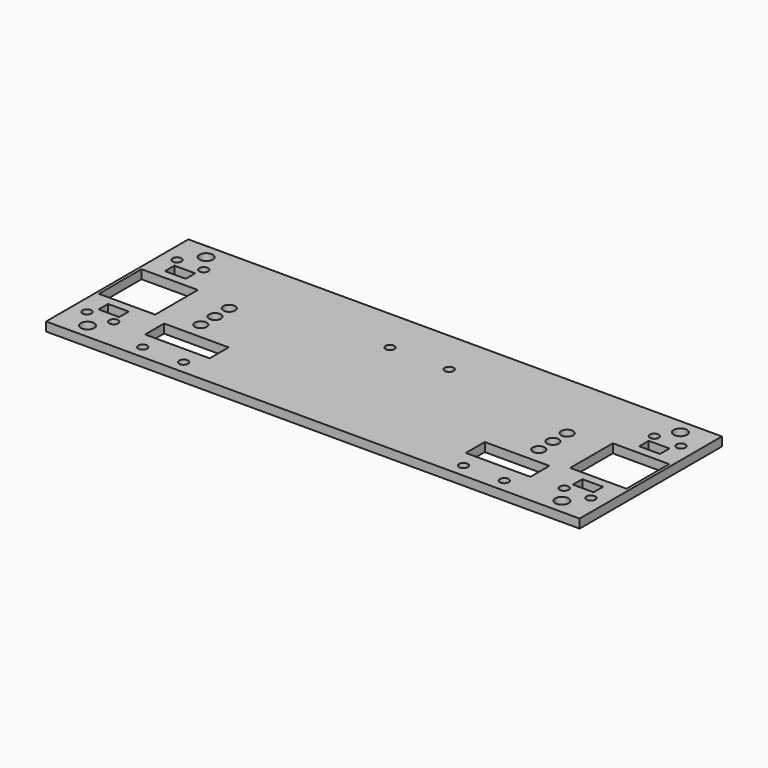
from build123d import *

# Parameters (mm, degrees)
SKETCH_W   = 90
SKETCH_H   = 60
SKETCH_R   = 2.25
SKETCH_R_2 = 2
SKETCH_R_3 = 1.5
SKETCH_W_2 = 7
SKETCH_H_2 = 4
SKETCH_W_3 = 19
SKETCH_H_3 = 18
SKETCH_W_4 = 21.8
SKETCH_H_4 = 8
PAD_DEPTH  = 3


with BuildPart() as part:
    # Sketch → Pad (new body)
    with BuildSketch(Plane.XY):
        with Locations((45, 30)):
            Rectangle(SKETCH_W, SKETCH_H)
        with Locations((10, 5)):
            Circle(SKETCH_R, mode=Mode.SUBTRACT)
        with Locations((33, 24)):
            Circle(SKETCH_R_2, mode=Mode.SUBTRACT)
        with Locations((33, 36)):
            Circle(SKETCH_R_2, mode=Mode.SUBTRACT)
        with Locations((33, 30)):
            Circle(SKETCH_R_2, mode=Mode.SUBTRACT)
        with Locations((10, 55)):
            Circle(SKETCH_R, mode=Mode.SUBTRACT)
        with Locations((14, 11)):
            Circle(SKETCH_R_3, mode=Mode.SUBTRACT)
        with Locations((5, 11)):
            Circle(SKETCH_R_3, mode=Mode.SUBTRACT)
        with Locations((14, 49)):
            Circle(SKETCH_R_3, mode=Mode.SUBTRACT)
        with Locations((5, 49)):
            Circle(SKETCH_R_3, mode=Mode.SUBTRACT)
        with Locations((80, 45)):
            Circle(SKETCH_R_3, mode=Mode.SUBTRACT)
        with Locations((29, 4.5)):
            Circle(SKETCH_R_3, mode=Mode.SUBTRACT)
        with Locations((42.8, 4.5)):
            Circle(SKETCH_R_3, mode=Mode.SUBTRACT)
        with Locations((10, 16)):
            Rectangle(SKETCH_W_2, SKETCH_H_2, mode=Mode.SUBTRACT)
        with Locations((10, 44)):
            Rectangle(SKETCH_W_2, SKETCH_H_2, mode=Mode.SUBTRACT)
        with Locations((10.5, 30)):
            Rectangle(SKETCH_W_3, SKETCH_H_3, mode=Mode.SUBTRACT)
        with Locations((35.9, 14.5)):
            Rectangle(SKETCH_W_4, SKETCH_H_4, mode=Mode.SUBTRACT)
    pad = extrude(amount=PAD_DEPTH)

    # Mirrored: Pad across face of Pad
    add(pad.mirror(Plane(origin=(90, 30, 1.5), x_dir=(0, 1, 0), z_dir=(1, 0, 0))))


solid = part.part
